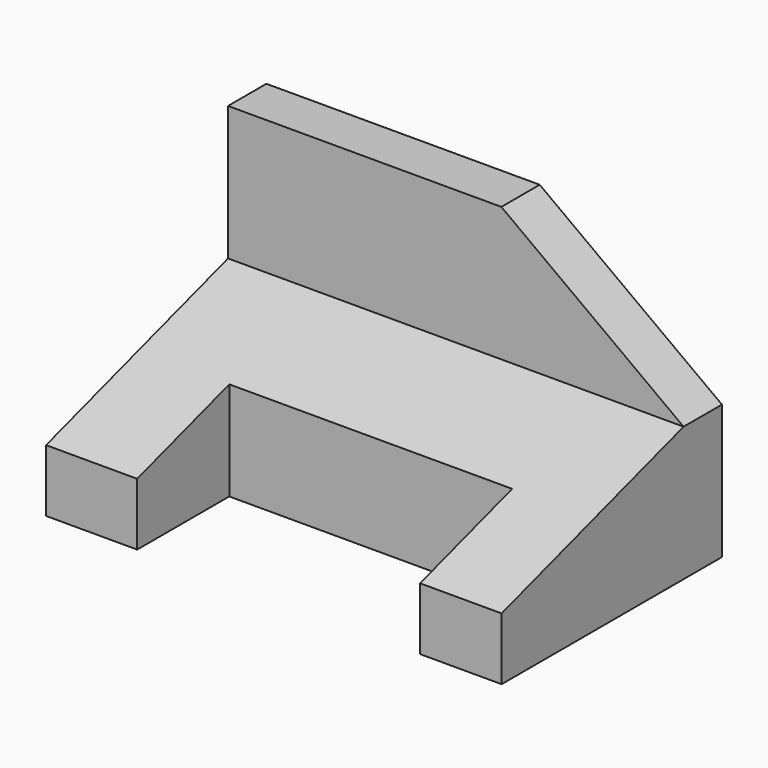
from build123d import *

# Parameters (mm, degrees)
F0_W     = 10
F0_H     = 28
F1_DEPTH = 95
F3_DEPTH = 10
F4_W     = 59
F4_H     = 24
F5_DEPTH = 62.4


with BuildPart() as f1:
    # F0 (on Right) → F1 (new body)
    with BuildSketch(Plane.YZ):
        Polygon((-57.430514, 0), (0, 0), (0, 28), (-10, 28), (-57.430514, 13), align=None)
        with Locations((-5, 42)):
            Rectangle(F0_W, F0_H)
    extrude(amount=-F1_DEPTH)

    # F2 (on face) → F3 (cut)
    with BuildSketch(Plane.XZ.offset(10)):
        Polygon((0, 56), (-37.998203, 56), (0, 28), align=None)
    extrude(amount=-F3_DEPTH, mode=Mode.SUBTRACT)

    # F4 (on face) → F5 (cut)
    with BuildSketch(Plane(origin=(0, 0, 0), x_dir=(1, 0, 0), z_dir=(0, 0, -1))):
        with Locations((-46.5, 45.430514)):
            Rectangle(F4_W, F4_H)
    extrude(amount=-F5_DEPTH, mode=Mode.SUBTRACT)


solid = f1.part
